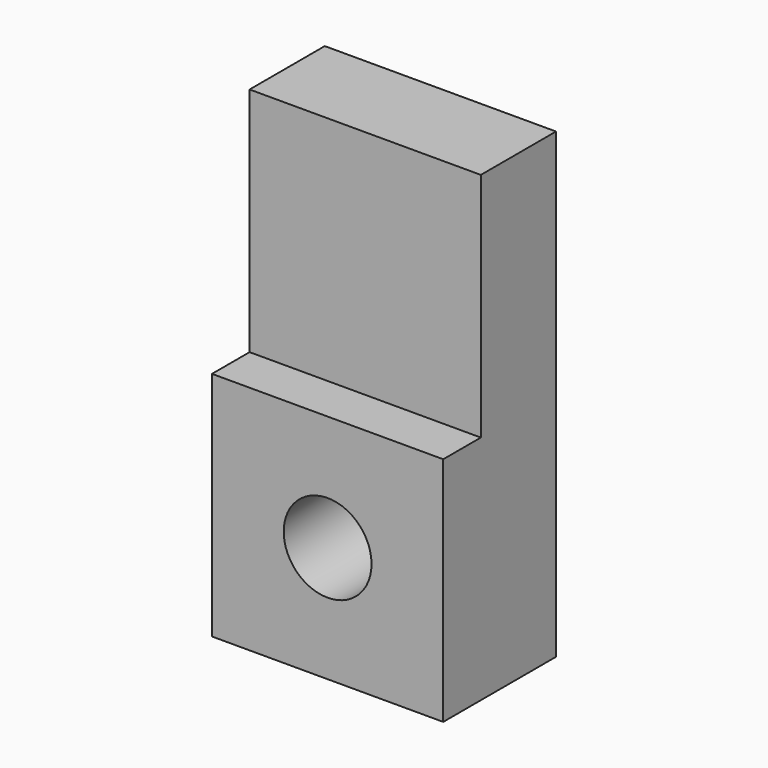
from build123d import *

# Parameters (mm, degrees)
F0_W           = 10
F0_H           = 10
F1_DEPTH       = 2.032
F2_DEPTH       = 4.064
F4_D           = 3.7973
F4_CSINK_D     = 7.7978
F4_CSINK_ANGLE = 82


with BuildPart() as f1:
    # F0 (on Front) → F1 (new body)
    with BuildSketch(Plane.XZ):
        with Locations((0, -3.175)):
            Rectangle(F0_W, F0_H)
    extrude(amount=F1_DEPTH)

    # F0 (on Front) → F2 (join)
    with BuildSketch(Plane.XZ):
        with Locations((0, 6.825)):
            Rectangle(F0_W, F0_H)
        with Locations((0, -3.175)):
            Rectangle(F0_W, F0_H)
    extrude(amount=-F2_DEPTH)

    # F4 (through all)
    with Locations(Plane(origin=(0, 4.064, 0), x_dir=(-1, 0, 0), z_dir=(0, 1, 0))):
        with Locations((0, -3.1738367397)):
            CounterSinkHole(F4_D / 2, F4_CSINK_D / 2, counter_sink_angle=F4_CSINK_ANGLE)


solid = f1.part
